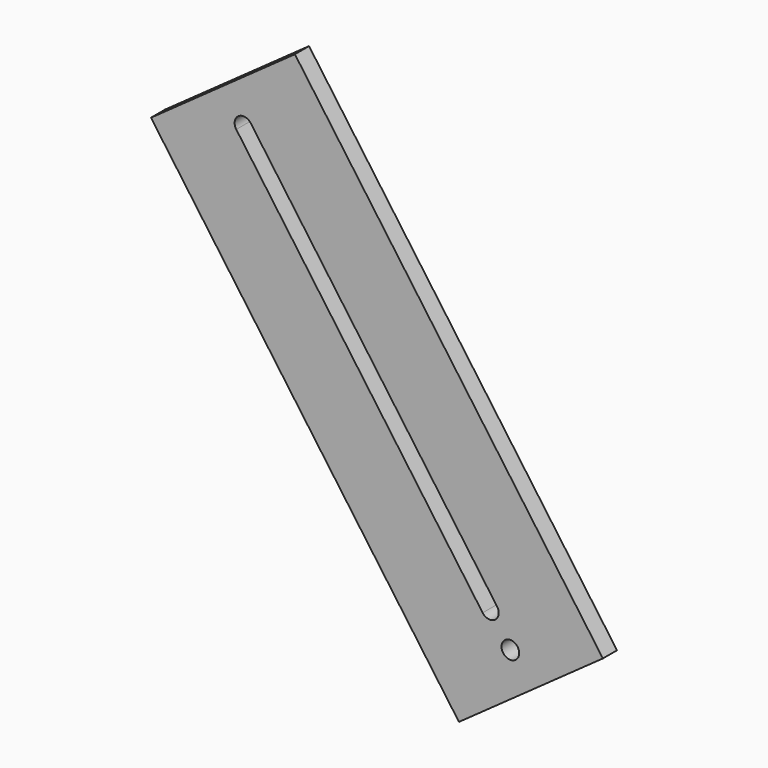
from build123d import *

# Parameters (mm, degrees)
F0_R     = 5
F1_DEPTH = 10


with BuildPart() as f1:
    # F0 (on Front) → F1 (new body)
    with BuildSketch(Plane.XZ):
        Polygon((233.36654, 469.133899), (151.954988, 411.063604), (326.165875, 166.828948), (407.577427, 224.899244), align=None)
        with Locations((355.257592, 212.146406)):
            Circle(F0_R, mode=Mode.SUBTRACT)
        with BuildLine():
            Line((208.345401, 426.719956), (347.71411, 231.332231))
            ThreePointArc((347.71411, 231.332231), (346.547048, 224.358139), (339.572955, 225.525202))
            Line((339.572955, 225.525202), (200.204246, 420.912926))
            ThreePointArc((200.204246, 420.912926), (201.371309, 427.887019), (208.345401, 426.719956))
        make_face(mode=Mode.SUBTRACT)
    extrude(amount=F1_DEPTH)


solid = f1.part
